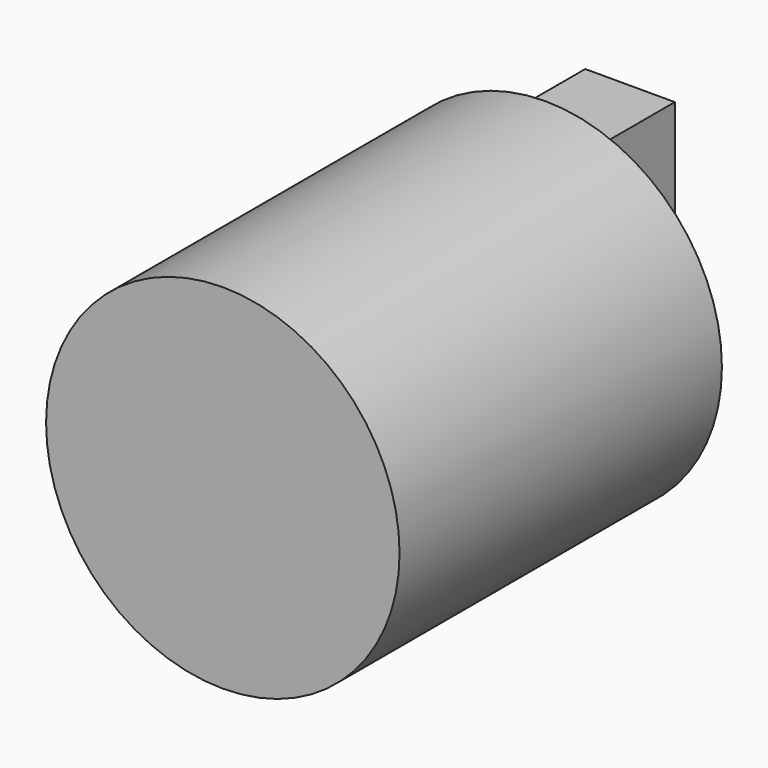
from build123d import *

# Parameters (mm, degrees)
F0_R     = 19.05
F1_DEPTH = 43.434
F2_R     = 2.54
F3_DEPTH = 1.778
F4_W     = 9.652
F4_H     = 31.75
F4_R     = 2.54
F5_DEPTH = 9.652


with BuildPart() as f1:
    # F0 (on Front) → F1 (new body)
    with BuildSketch(Plane.XZ):
        Circle(F0_R)
    extrude(amount=F1_DEPTH)

    # F2 (on Front) → F3 (join)
    with BuildSketch(Plane.XZ):
        with Locations((0, -3.81)):
            Circle(F2_R)
        with Locations((0, 3.81)):
            Circle(F2_R)
    extrude(amount=-F3_DEPTH)


with BuildPart() as f5:
    # F4 (on face) → F5 (new body)
    with BuildSketch(Plane(origin=(0, 1.778, 0), x_dir=(-1, 0, 0), z_dir=(0, 1, 0))):
        Rectangle(F4_W, F4_H)
        with Locations((0, -3.81)):
            Circle(F4_R, mode=Mode.SUBTRACT)
    extrude(amount=F5_DEPTH)


solid = Compound([f1.part, f5.part])
